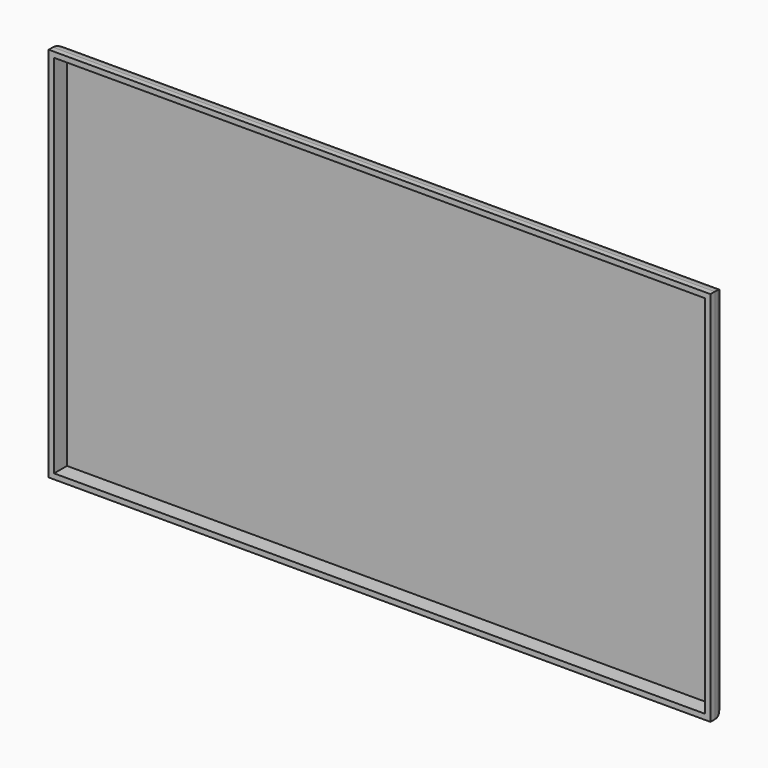
from build123d import *

# Parameters (mm, degrees)
F0_W     = 1230
F0_H     = 700
F1_DEPTH = 40
F3_T     = -10
F4_R     = 30


with BuildPart() as f1:
    # F0 (on Front) → F1 (new body)
    with BuildSketch(Plane.XZ):
        with Locations((7.912883, 14.9518)):
            Rectangle(F0_W, F0_H)
    extrude(amount=F1_DEPTH)

    # F3
    f3_openings = [f1.faces().sort_by_distance(p)[0] for p in [
        (7.912883, -40, 14.9518),
    ]]
    offset(amount=F3_T, openings=f3_openings)

    # F4
    f4_edges = [f1.edges().sort_by_distance(p)[0] for p in [
        (7.912883, 0, -335.0482),
        (7.912883, 0, 364.9518),
        (-607.087117, 0, 14.9518),
        (622.912883, 0, 14.9518),
    ]]
    fillet(f4_edges, radius=F4_R)


solid = f1.part
